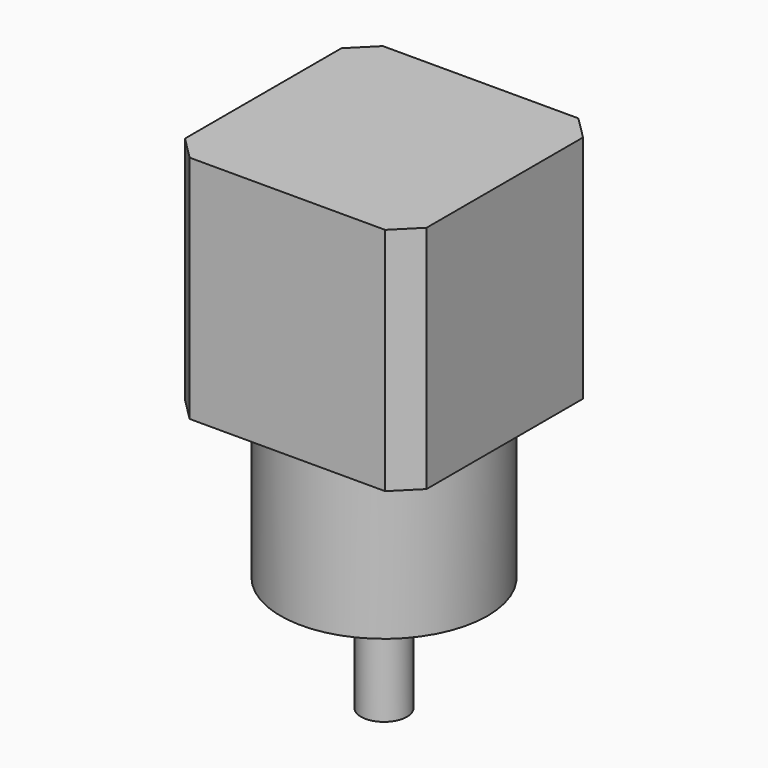
from build123d import *

# Parameters (mm, degrees)
SKETCH_W     = 42
SKETCH_H     = 42
PAD_DEPTH    = 40
CHAMFER_SIZE = 4
SKETCH005_R  = 18
PAD003_DEPTH = 27.3
SKETCH001_R  = 11
PAD001_DEPTH = 2
SKETCH002_R  = 4
PAD002_DEPTH = 20
POCKET_DEPTH = 15
SKETCH004_R  = 1.25
HOLE_DEPTH   = 4.5
HOLE_TIPS_R  = 1.25


with BuildPart() as part:
    # Sketch → Pad (new body)
    with BuildSketch(Plane.XY):
        Rectangle(SKETCH_W, SKETCH_H)
    extrude(amount=PAD_DEPTH)

    # Chamfer
    chamfer_edges = [part.edges().sort_by_distance(p)[0] for p in [
        (21, -21, 20),
        (-21, -21, 20),
        (21, 21, 20),
        (-21, 21, 20),
    ]]
    chamfer(chamfer_edges, length=CHAMFER_SIZE)

    # Sketch005 → Pad003 (join)
    with BuildSketch(Plane.XY):
        Circle(SKETCH005_R)
    extrude(amount=-PAD003_DEPTH)

    # Sketch001 → Pad001 (join)
    with BuildSketch(Plane.XY.offset(-27.3)):
        Circle(SKETCH001_R)
    extrude(amount=-PAD001_DEPTH)

    # Sketch002 (on Sketch) → Pad002 (join)
    with BuildSketch(Plane.XY.offset(-27.3)):
        Circle(SKETCH002_R)
    extrude(amount=-PAD002_DEPTH)

    # Sketch003 (on Sketch) → Pocket (cut)
    with BuildSketch(Plane.XY.offset(-32.3)):
        with BuildLine():
            ThreePointArc((10.583005, 3), (0, 11), (-10.583005, 3))
            Line((-10.583005, 3), (10.583005, 3))
        make_face()
    extrude(amount=-POCKET_DEPTH, mode=Mode.SUBTRACT)

    # Sketch004 (on Sketch) → Hole (cut)
    with BuildSketch(Plane.XY.offset(-27.3)):
        with Locations((9.899495, 9.899495)):
            Circle(SKETCH004_R)
        with Locations((-9.899495, 9.899495)):
            Circle(SKETCH004_R)
        with Locations((-9.899495, -9.899495)):
            Circle(SKETCH004_R)
        with Locations((9.899495, -9.899495)):
            Circle(SKETCH004_R)
    extrude(amount=HOLE_DEPTH, mode=Mode.SUBTRACT)

    # Hole tips → Hole tip 1 section 0
    with BuildSketch(Plane.XY.offset(-22.8), mode=Mode.PRIVATE) as hole_tip_1_s0:
        with Locations((9.899495, 9.899495)):
            Circle(HOLE_TIPS_R)
    loft([hole_tip_1_s0.sketch, Vertex(9.899495, 9.899495, -22.048924)], mode=Mode.SUBTRACT)

    # Hole tips → Hole tip 2 section 0
    with BuildSketch(Plane.XY.offset(-22.8), mode=Mode.PRIVATE) as hole_tip_2_s0:
        with Locations((-9.899495, 9.899495)):
            Circle(HOLE_TIPS_R)
    loft([hole_tip_2_s0.sketch, Vertex(-9.899495, 9.899495, -22.048924)], mode=Mode.SUBTRACT)

    # Hole tips → Hole tip 3 section 0
    with BuildSketch(Plane.XY.offset(-22.8), mode=Mode.PRIVATE) as hole_tip_3_s0:
        with Locations((-9.899495, -9.899495)):
            Circle(HOLE_TIPS_R)
    loft([hole_tip_3_s0.sketch, Vertex(-9.899495, -9.899495, -22.048924)], mode=Mode.SUBTRACT)

    # Hole tips → Hole tip 4 section 0
    with BuildSketch(Plane.XY.offset(-22.8), mode=Mode.PRIVATE) as hole_tip_4_s0:
        with Locations((9.899495, -9.899495)):
            Circle(HOLE_TIPS_R)
    loft([hole_tip_4_s0.sketch, Vertex(9.899495, -9.899495, -22.048924)], mode=Mode.SUBTRACT)


solid = part.part
